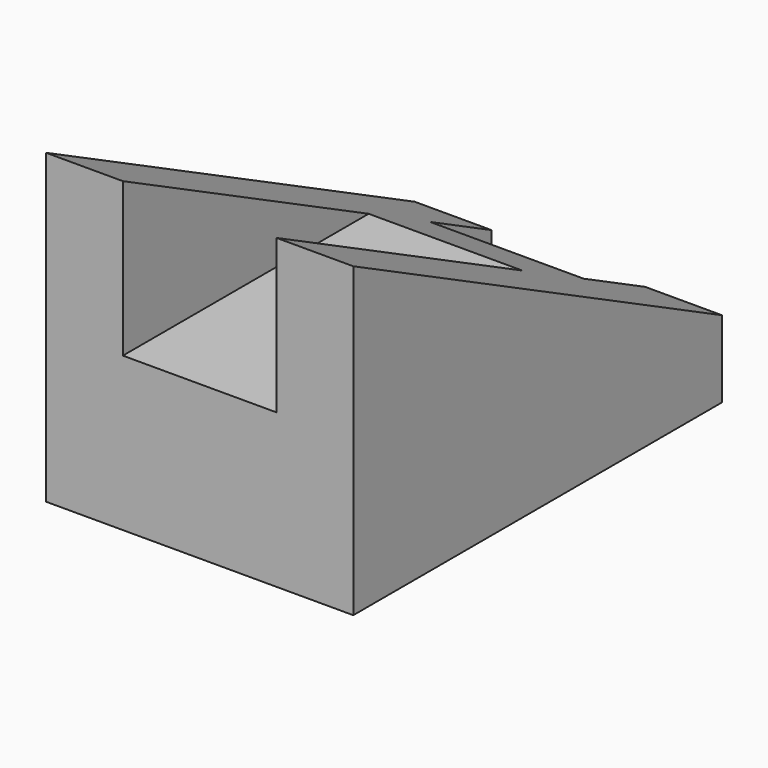
from build123d import *

# Parameters (mm, degrees)
F1_DEPTH = 40
F2_W     = 20
F2_H     = 10
F3_DEPTH = 40.001
F4_W     = 20
F4_H     = 20
F5_DEPTH = 60.001


with BuildPart() as f1:
    # F0 (on Right) → F1 (new body)
    with BuildSketch(Plane.YZ):
        Polygon((60, 10), (0, 40), (0, 0), (60, 0), align=None)
    extrude(amount=F1_DEPTH)

    # F2 (on face) → F3 (cut, through all)
    with BuildSketch(Plane(origin=(0, 0, 0), x_dir=(1, 0, 0), z_dir=(0, 0, -1))):
        with Locations((20, -55)):
            Rectangle(F2_W, F2_H)
    extrude(amount=-F3_DEPTH, mode=Mode.SUBTRACT)

    # F4 (on face) → F5 (cut, through all)
    with BuildSketch(Plane.XZ):
        with Locations((20, 30)):
            Rectangle(F4_W, F4_H)
    extrude(amount=-F5_DEPTH, mode=Mode.SUBTRACT)


solid = f1.part
